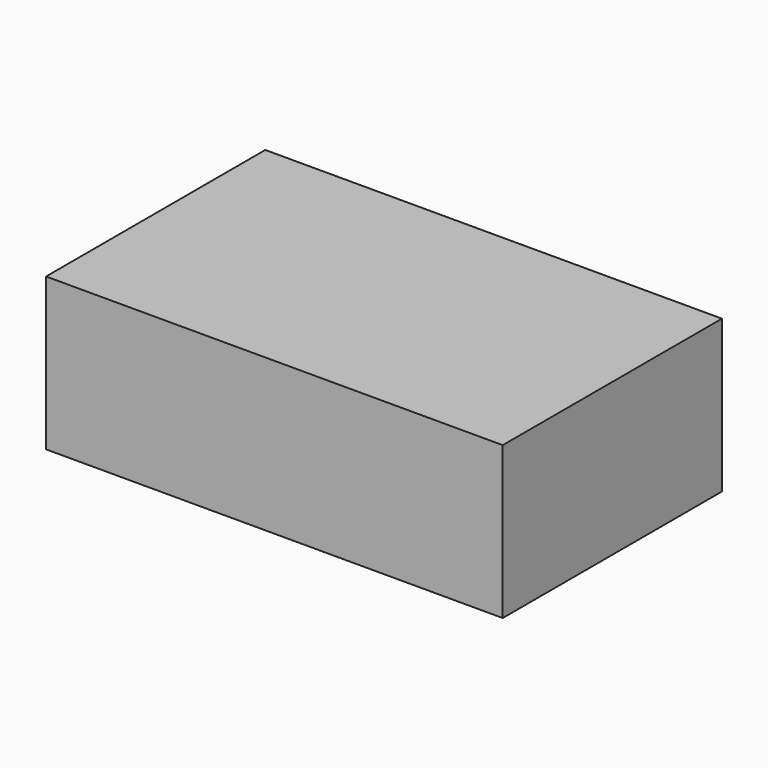
from build123d import *

# Parameters (mm, degrees)
CYLINDER045_W               = 5.5
CYLINDER045_H               = 4.8
CYLINDER045_ANGLE           = 84
CYLINDER045_PLACEMENT_ANGLE = 3
FILLET004_R                 = 0.79
ARRAY008_COUNT              = 4
CYLINDER049_R               = 3.9
CYLINDER049_DEPTH           = 10
CYLINDER048_R               = 1.5
CYLINDER048_DEPTH           = 10
ARRAY010_X_COUNT            = 2
ARRAY010_X_PITCH            = 21
ARRAY010_Y_COUNT            = 2
ARRAY010_Y_PITCH            = 8
BOX007_W                    = 3
BOX007_H                    = 12.9
BOX007_DEPTH                = 10
BOX006_W                    = 3
BOX006_H                    = 13.9
BOX006_DEPTH                = 10
CYLINDER061_R               = 0.5
CYLINDER061_DEPTH           = 10
ARRAY015_COUNT              = 4
ARRAY015_PLACEMENT_ANGLE    = 28
BOX004_W                    = 25
BOX004_H                    = 12
BOX004_DEPTH                = 4
FILLET006_R                 = 2
BOX009_W                    = 30
BOX009_H                    = 18
BOX009_DEPTH                = 10


with BuildPart() as array008:
    # Cylinder045 → Cylinder045 (revolve)
    with BuildSketch(Plane.XZ):
        with Locations((2.75, 2.4)):
            Rectangle(CYLINDER045_W, CYLINDER045_H)
    revolve(axis=Axis((0, 0, 0), (0, 0, 1)), revolution_arc=CYLINDER045_ANGLE)


with BuildPart() as array008_1:
    # Cylinder045 placement: moved
    add(array008.part.moved(Location((0, 0, 0.6))).rotate(Axis((0, 0, 0.6), (0, 0, 1)), CYLINDER045_PLACEMENT_ANGLE))

    # Fillet004
    fillet004_edges = [array008_1.edges().sort_by_distance(p)[0] for p in [
        (0.287848, 5.492462, 3),
        (5.492462, 0.287848, 3),
    ]]
    fillet(fillet004_edges, radius=FILLET004_R)

    # Array008: Array008 ×4 about axis
    array008_axis = Axis((0, 0, 0), (0, 0, 1))


with BuildPart() as array008_2:
    add(array008_1.part)
    for i in range(1, ARRAY008_COUNT):
        add(array008_1.part.rotate(array008_axis, i * 360 / ARRAY008_COUNT))


with BuildPart() as mountplateinnerhole003:
    # Cylinder049 → Cylinder049 (new body)
    with BuildSketch(Plane.XY):
        Circle(CYLINDER049_R)
    extrude(amount=CYLINDER049_DEPTH)


with BuildPart() as array010:
    # Cylinder048 → Cylinder048 (new body)
    with BuildSketch(Plane.XY):
        Circle(CYLINDER048_R)
    extrude(amount=CYLINDER048_DEPTH)

    # Array010 X: Array010 ×2


with BuildPart() as array010_1:
    add(array010.part)
    with Locations(*[(i * ARRAY010_X_PITCH, 0, 0) for i in range(1, ARRAY010_X_COUNT)]):
        add(array010.part)

    # Array010 Y: Array010 ×2


with BuildPart() as array010_2:
    add(array010_1.part)
    with Locations(*[(0, i * ARRAY010_Y_PITCH, 0) for i in range(1, ARRAY010_Y_COUNT)]):
        add(array010_1.part)


with BuildPart() as array010_3:
    # Array010 placement: moved
    add(array010_2.part.moved(Location((-10.5, -4, 0))))


with BuildPart() as cube007:
    # Box007 → Box007 (new body)
    with BuildSketch(Plane(origin=(-9.1, -6, 2), x_dir=(1, 0, 0), z_dir=(0, 0, 1))):
        with Locations((1.5, 6.45)):
            Rectangle(BOX007_W, BOX007_H)
    extrude(amount=BOX007_DEPTH)


with BuildPart() as cube006:
    # Box006 → Box006 (new body)
    with BuildSketch(Plane(origin=(6.1, -7, 2), x_dir=(1, 0, 0), z_dir=(0, 0, 1))):
        with Locations((1.5, 6.95)):
            Rectangle(BOX006_W, BOX006_H)
    extrude(amount=BOX006_DEPTH)


with BuildPart() as fusion019:
    # Cylinder061 → Cylinder061 (new body)
    with BuildSketch(Plane(origin=(6, 2, 0), x_dir=(1, 0, 0), z_dir=(0, 0, 1))):
        Circle(CYLINDER061_R)
    extrude(amount=CYLINDER061_DEPTH)

    # Array015: Fusion019 ×4 about axis
    array015_axis = Axis((0, 0, 0), (0, 0, 1))


with BuildPart() as fusion019_1:
    add(fusion019.part)
    for i in range(1, ARRAY015_COUNT):
        add(fusion019.part.rotate(array015_axis, i * 360 / ARRAY015_COUNT))


with BuildPart() as fusion019_2:
    # Array015 placement: moved
    add(fusion019_1.part.rotate(Axis((0, 0, 0), (0, 0, 1)), ARRAY015_PLACEMENT_ANGLE))

    # Fusion019: union Array008, MountPlateInnerHole003, Array010, Cube007, Cube006
    add(array008_2.part)
    add(mountplateinnerhole003.part)
    add(array010_3.part)
    add(cube007.part)
    add(cube006.part)


with BuildPart() as frontplate:
    # Box004 → Box004 (new body)
    with BuildSketch(Plane(origin=(-12.5, -6, 0), x_dir=(1, 0, 0), z_dir=(0, 0, 1))):
        with Locations((12.5, 6)):
            Rectangle(BOX004_W, BOX004_H)
    extrude(amount=BOX004_DEPTH)

    # Fillet006
    fillet006_edges = [frontplate.edges().sort_by_distance(p)[0] for p in [
        (-12.5, -6, 2),
        (-12.5, 6, 2),
        (12.5, -6, 2),
        (12.5, 6, 2),
    ]]
    fillet(fillet006_edges, radius=FILLET006_R)

    # Cut022: cut Fusion019
    add(fusion019_2.part, mode=Mode.SUBTRACT)


with BuildPart() as cut024:
    # Box009 → Box009 (new body)
    with BuildSketch(Plane(origin=(-15, -9, 0), x_dir=(1, 0, 0), z_dir=(0, 0, 1))):
        with Locations((15, 9)):
            Rectangle(BOX009_W, BOX009_H)
    extrude(amount=BOX009_DEPTH)

    # Cut024: cut FrontPlate
    add(frontplate.part, mode=Mode.SUBTRACT)


solid = cut024.part
